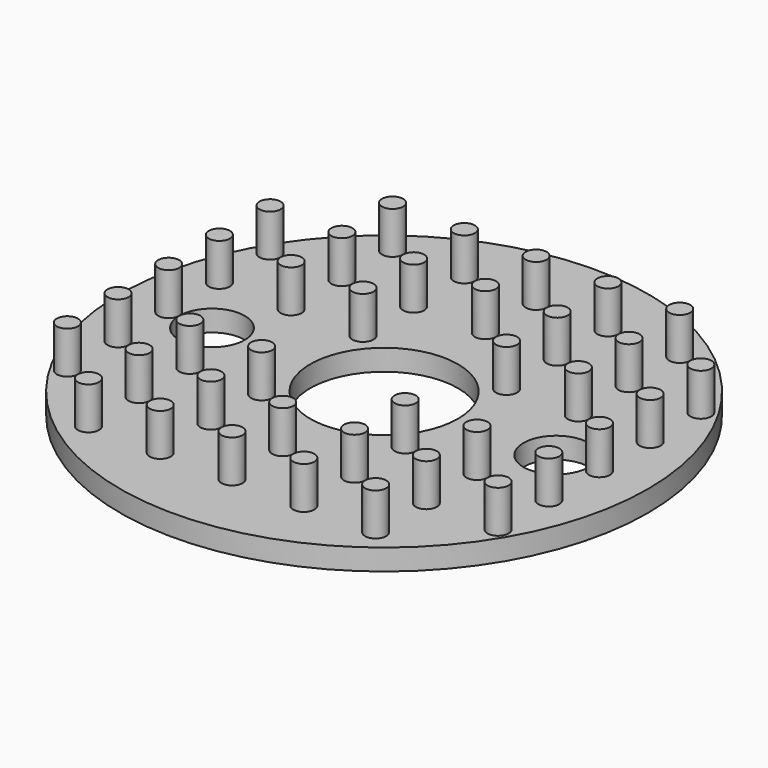
from build123d import *

# Parameters (mm, degrees)
F0_R     = 12.5
F1_DEPTH = 1
F2_R     = 0.5
F3_DEPTH = 3
F4_R     = 3.5
F4_R_2   = 1.55
F5_DEPTH = 3.001


with BuildPart() as f1:
    # F0 (on Top) → F1 (new body)
    with BuildSketch(Plane.XY):
        Circle(F0_R)
    extrude(amount=F1_DEPTH)

    # F2 (on Top) → F3 (join)
    with BuildSketch(Plane.XY):
        with Locations((10.2, 3)):
            Circle(F2_R)
        with Locations((6.8, 6)):
            Circle(F2_R)
        with Locations((10.2, 0)):
            Circle(F2_R)
        with Locations((10.2, -3)):
            Circle(F2_R)
        with Locations((6.8, -6)):
            Circle(F2_R)
        with Locations((3.4, -6)):
            Circle(F2_R)
        with Locations((0, -6)):
            Circle(F2_R)
        with Locations((-3.4, -6)):
            Circle(F2_R)
        with Locations((-6.8, -6)):
            Circle(F2_R)
        with Locations((-10.2, -3)):
            Circle(F2_R)
        with Locations((-10.2, 0)):
            Circle(F2_R)
        with Locations((-10.2, 3)):
            Circle(F2_R)
        with Locations((-6.8, 6)):
            Circle(F2_R)
        with Locations((-3.4, 6)):
            Circle(F2_R)
        with Locations((0, 6)):
            Circle(F2_R)
        with Locations((3.4, 6)):
            Circle(F2_R)
        with Locations((-6.8, -3)):
            Circle(F2_R)
        with Locations((-6.8, 3)):
            Circle(F2_R)
        with Locations((-3.4, -3)):
            Circle(F2_R)
        with Locations((-3.4, 3)):
            Circle(F2_R)
        with Locations((6.8, -3)):
            Circle(F2_R)
        with Locations((3.4, -3)):
            Circle(F2_R)
        with Locations((6.8, 3)):
            Circle(F2_R)
        with Locations((3.4, 3)):
            Circle(F2_R)
        with Locations((6.8, 9)):
            Circle(F2_R)
        with Locations((3.4, 9)):
            Circle(F2_R)
        with Locations((0, 9)):
            Circle(F2_R)
        with Locations((-3.4, 9)):
            Circle(F2_R)
        with Locations((-6.8, 9)):
            Circle(F2_R)
        with Locations((10.2, 6)):
            Circle(F2_R)
        with Locations((6.8, -9)):
            Circle(F2_R)
        with Locations((3.4, -9)):
            Circle(F2_R)
        with Locations((-10.2, 6)):
            Circle(F2_R)
        with Locations((10.2, -6)):
            Circle(F2_R)
        with Locations((-3.4, -9)):
            Circle(F2_R)
        with Locations((0, -9)):
            Circle(F2_R)
        with Locations((-6.8, -9)):
            Circle(F2_R)
        with Locations((-10.2, -6)):
            Circle(F2_R)
    extrude(amount=F3_DEPTH)

    # F4 (on Top) → F5 (cut, through all)
    with BuildSketch(Plane.XY):
        Circle(F4_R)
        with Locations((8.15, 0)):
            Circle(F4_R_2)
        with Locations((-8.15, 0)):
            Circle(F4_R_2)
    extrude(amount=F5_DEPTH, mode=Mode.SUBTRACT)


solid = f1.part
